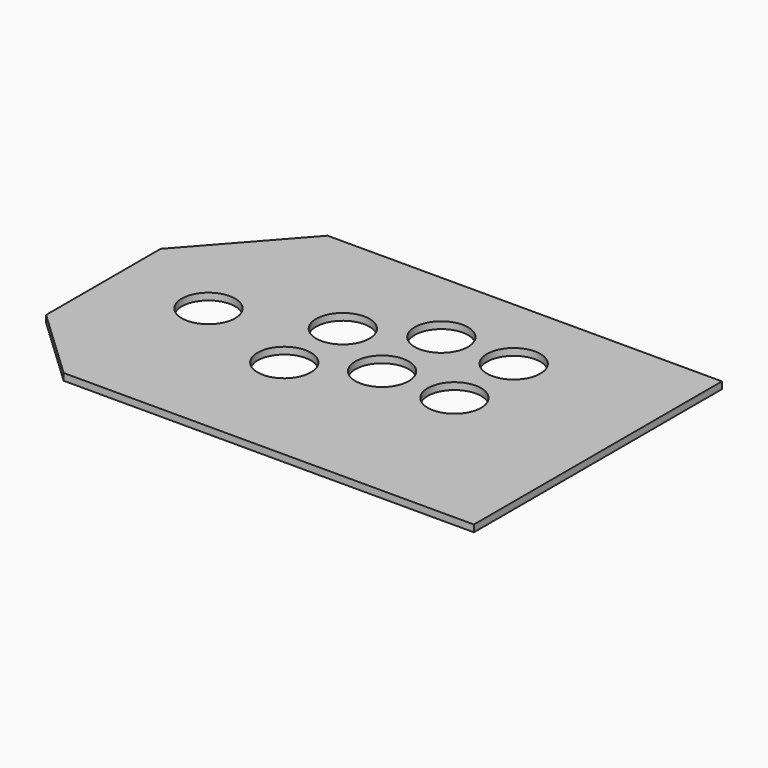
from build123d import *

# Parameters (mm, degrees)
F0_R     = 15.5
F1_DEPTH = 4


with BuildPart() as f1:
    # F0 (on Top) → F1 (new body)
    with BuildSketch(Plane.XY):
        Polygon((144.639903, 85.802792), (-84.313057, 85.802792), (-135.360097, 28.429504), (-135.360097, -54.690316), (-93.548588, -94.197208), (144.639903, -94.197208), align=None)
        with Locations((-21.860097, -23.697208)):
            Circle(F0_R, mode=Mode.SUBTRACT)
        with Locations((-81.860097, -3.697208)):
            Circle(F0_R, mode=Mode.SUBTRACT)
        with Locations((-21.860097, 18.802792)):
            Circle(F0_R, mode=Mode.SUBTRACT)
        with Locations((18.139903, -2.697208)):
            Circle(F0_R, mode=Mode.SUBTRACT)
        with Locations((60.139903, -2.697208)):
            Circle(F0_R, mode=Mode.SUBTRACT)
        with Locations((18.139903, 40.302792)):
            Circle(F0_R, mode=Mode.SUBTRACT)
        with Locations((60.139903, 40.302792)):
            Circle(F0_R, mode=Mode.SUBTRACT)
    extrude(amount=F1_DEPTH)


solid = f1.part
